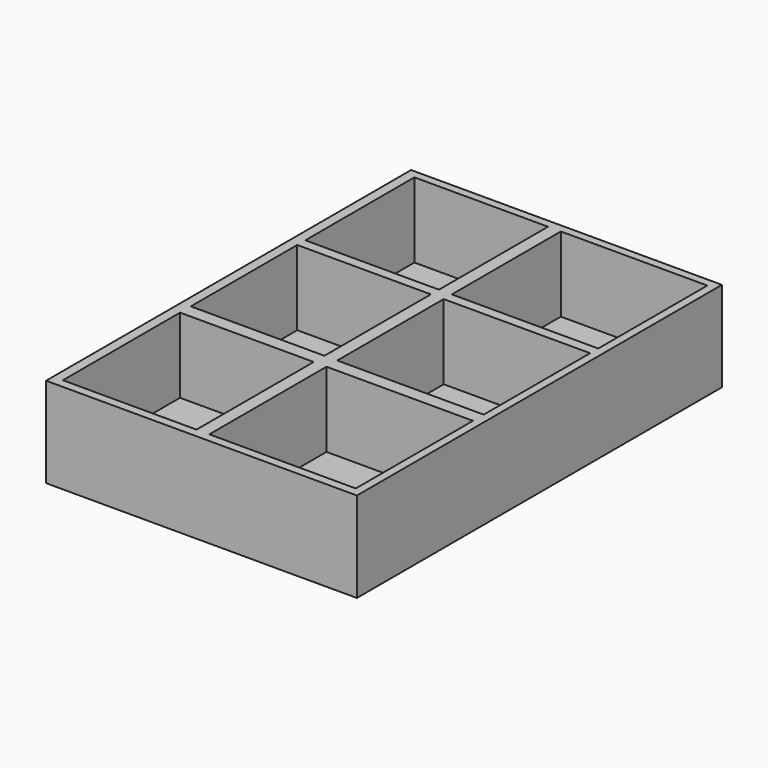
from build123d import *

# Parameters (mm, degrees)
F0_W     = 67.3768445849
F0_H     = 98.9107750356
F0_W_2   = 2.7784528211
F0_H_2   = 29.5537686782
F0_H_3   = 2.1962313218
F0_H_4   = 28.8333376633
F0_W_3   = 28.9715471789
F0_W_4   = 31.75
F0_H_5   = 2.9166623367
F0_H_6   = 31.75
F1_DEPTH = 19.558
F2_DEPTH = 3.302


with BuildPart() as f1:
    # F0 (on Top) → F1 (new body)
    with BuildSketch(Plane.XY):
        with Locations((-0.175267458, 3.9172600955)):
            Rectangle(F0_W, F0_H)
        Polygon((-31.75, 22.0649391413), (-31.75, 51.6187078194), (-2.7784528211, 51.6187078194), (0, 51.6187078194), (31.75, 51.6187078194), (31.75, 22.0649391413), (31.75, 19.8687078194), (31.75, -8.9646298438), (31.75, -11.8812921806), (31.75, -43.6312921806), (0, -43.6312921806), (-2.7784528211, -43.6312921806), (-31.75, -43.6312921806), (-31.75, -11.8812921806), (-31.75, -8.9646298438), (-31.75, 19.8687078194), align=None, mode=Mode.SUBTRACT)
        with Locations((-1.3892264105, 36.8418234804)):
            Rectangle(F0_W_2, F0_H_2)
        with Locations((-1.3892264105, 20.9668234804)):
            Rectangle(F0_W_2, F0_H_3)
        with Locations((-1.3892264105, 5.4520389878)):
            Rectangle(F0_W_2, F0_H_4)
        with Locations((-17.2642264105, 20.9668234804)):
            Rectangle(F0_W_3, F0_H_3)
        with Locations((15.875, 20.9668234804)):
            Rectangle(F0_W_4, F0_H_3)
        with Locations((-17.2642264105, -10.4229610122)):
            Rectangle(F0_W_3, F0_H_5)
        with Locations((-1.3892264105, -10.4229610122)):
            Rectangle(F0_W_2, F0_H_5)
        with Locations((-1.3892264105, -27.7562921806)):
            Rectangle(F0_W_2, F0_H_6)
        with Locations((15.875, -10.4229610122)):
            Rectangle(F0_W_4, F0_H_5)
    extrude(amount=F1_DEPTH)

    # F0 (on Top) → F2 (join)
    with BuildSketch(Plane.XY):
        with Locations((-0.175267458, 3.9172600955)):
            Rectangle(F0_W, F0_H)
        Polygon((-31.75, 22.0649391413), (-31.75, 51.6187078194), (-2.7784528211, 51.6187078194), (0, 51.6187078194), (31.75, 51.6187078194), (31.75, 22.0649391413), (31.75, 19.8687078194), (31.75, -8.9646298438), (31.75, -11.8812921806), (31.75, -43.6312921806), (0, -43.6312921806), (-2.7784528211, -43.6312921806), (-31.75, -43.6312921806), (-31.75, -11.8812921806), (-31.75, -8.9646298438), (-31.75, 19.8687078194), align=None, mode=Mode.SUBTRACT)
        with Locations((15.875, 36.8418234804)):
            Rectangle(F0_W_4, F0_H_2)
        with Locations((15.875, 5.4520389878)):
            Rectangle(F0_W_4, F0_H_4)
        with Locations((-17.2642264105, 36.8418234804)):
            Rectangle(F0_W_3, F0_H_2)
        with Locations((-17.2642264105, 5.4520389878)):
            Rectangle(F0_W_3, F0_H_4)
        with Locations((-17.2642264105, -27.7562921806)):
            Rectangle(F0_W_3, F0_H_6)
        with Locations((15.875, -27.7562921806)):
            Rectangle(F0_W_4, F0_H_6)
    extrude(amount=F2_DEPTH)


solid = f1.part
